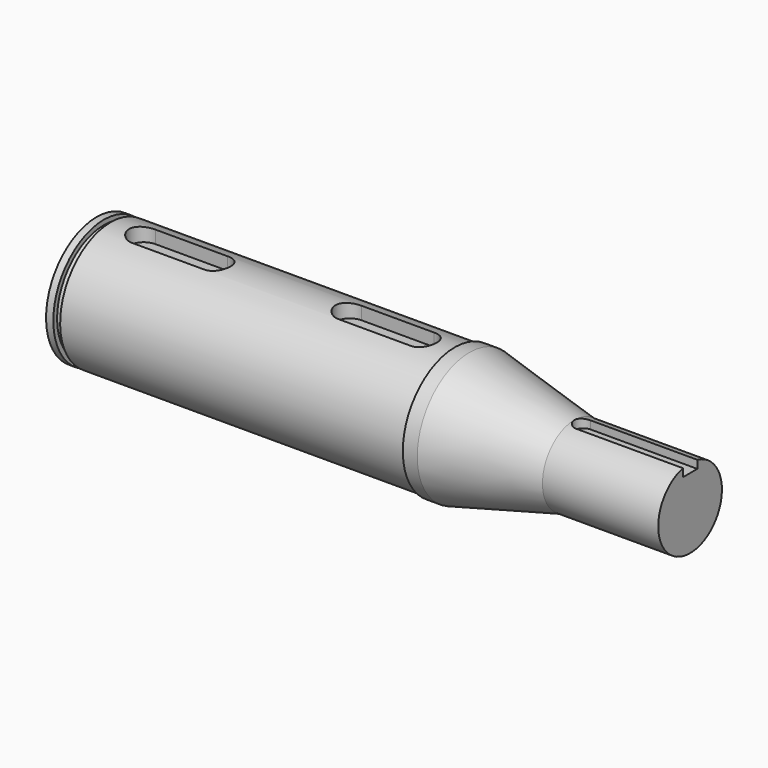
from build123d import *

# Parameters (mm, degrees)
F5_DEPTH = 6.35
F7_DEPTH = 3.96875


with BuildPart() as f1:
    # F0 (on Front) → F1 (revolve)
    with BuildSketch(Plane.XZ):
        Polygon((-157.1752, 27.7495), (-157.1752, 0), (103.1748, 0), (103.1748, 17.4625), (52.3748, 17.4625), (6.35, 28.575), (0, 28.575), (0, 27.7495), (-150.9903, 27.7495), (-150.9903, 25.6794), (-153.9875, 25.6794), (-153.9875, 27.7495), align=None)
    revolve(axis=Axis((-27.0002, 0, 0), (1, 0, 0)))

    # F4 (on offset) → F5 (cut)
    with BuildSketch(Plane.XY.offset(27.7495)):
        with BuildLine():
            Line((-104.7877, 6.35), (-136.5377, 6.35))
            ThreePointArc((-136.5377, 6.35), (-142.8877, 0), (-136.5377, -6.35))
            Line((-136.5377, -6.35), (-104.7877, -6.35))
            ThreePointArc((-104.7877, -6.35), (-98.4377, 0), (-104.7877, 6.35))
        make_face()
        with BuildLine():
            Line((-14.3002, 6.35), (-46.0502, 6.35))
            ThreePointArc((-46.0502, 6.35), (-52.4002, 0), (-46.0502, -6.35))
            Line((-46.0502, -6.35), (-14.3002, -6.35))
            ThreePointArc((-14.3002, -6.35), (-7.9502, 0), (-14.3002, 6.35))
        make_face()
    extrude(amount=-F5_DEPTH, mode=Mode.SUBTRACT)

    # F6 (on offset) → F7 (cut)
    with BuildSketch(Plane.XY.offset(17.4625)):
        with BuildLine():
            Line((103.1748, 3.96875), (56.34355, 3.96875))
            ThreePointArc((56.34355, 3.96875), (52.3748, 0), (56.34355, -3.96875))
            Line((56.34355, -3.96875), (103.1748, -3.96875))
            Line((103.1748, -3.96875), (103.1748, 3.96875))
        make_face()
    extrude(amount=-F7_DEPTH, mode=Mode.SUBTRACT)


solid = f1.part
